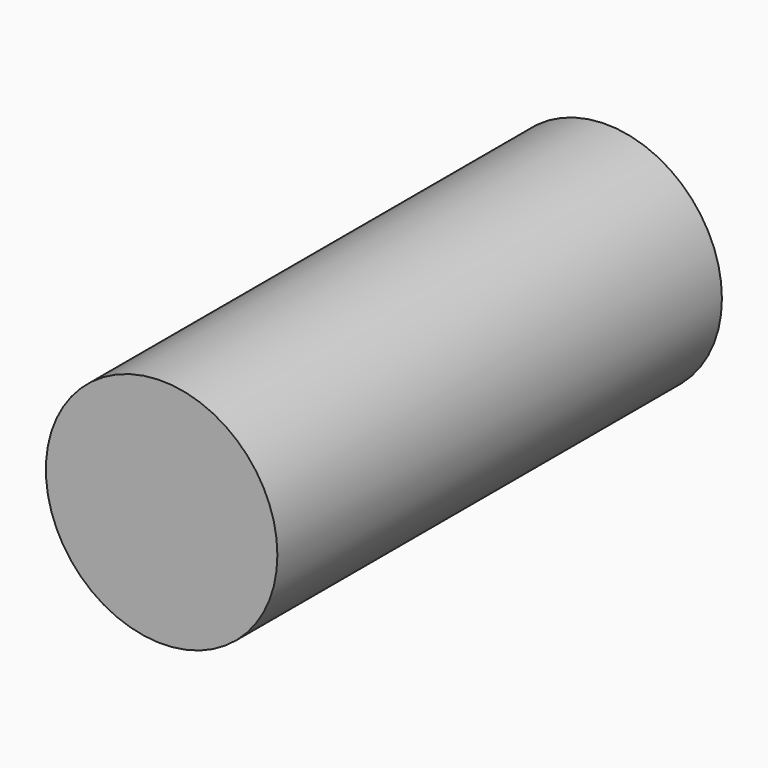
from build123d import *

# Parameters (mm, degrees)
F0_R     = 2.5
F1_DEPTH = 72
F2_DEPTH = 50
F3_DEPTH = 10


with BuildPart() as f1:
    # F0 (on Front) → F1 (new body)
    with BuildSketch(Plane.XZ):
        Circle(F0_R)
    extrude(amount=F1_DEPTH)

    # F2 (cut): a face of the model
    f2_faces = [f1.faces().sort_by_distance(p)[0] for p in [
        (0, -72, 0),
    ]]
    extrude(f2_faces, amount=-F2_DEPTH, mode=Mode.SUBTRACT)

    # F3 (cut): a face of the model
    f3_faces = [f1.faces().sort_by_distance(p)[0] for p in [
        (0, -22, 0),
    ]]
    extrude(f3_faces, amount=-F3_DEPTH, mode=Mode.SUBTRACT)


solid = f1.part
